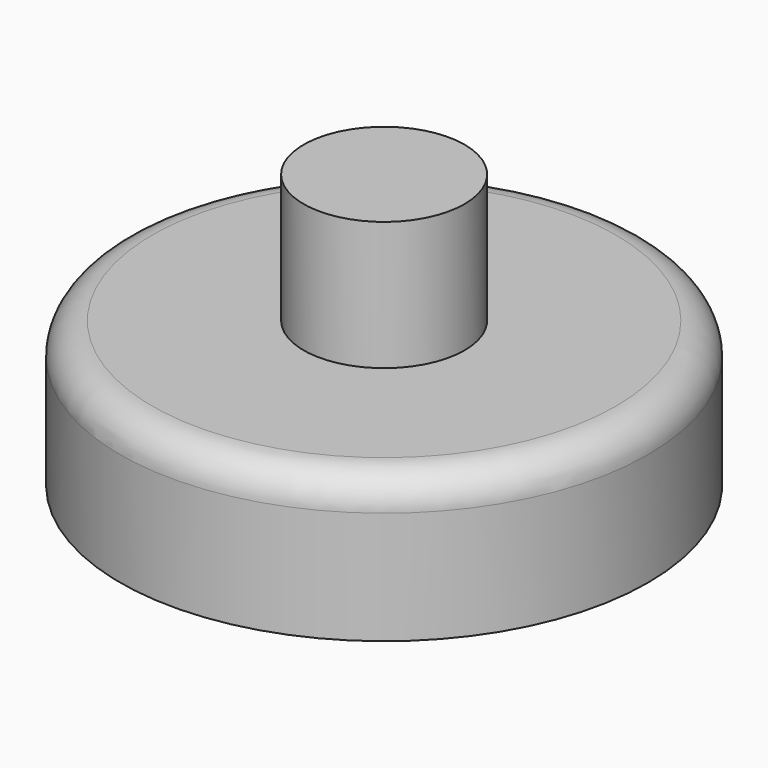
from build123d import *

# Parameters (mm, degrees)
SKETCH_R     = 8.2
PAD_DEPTH    = 4.5
SKETCH001_R  = 2.5
PAD001_DEPTH = 4
FILLET_R     = 1


with BuildPart() as part:
    # Sketch → Pad (new body)
    with BuildSketch(Plane.XY):
        Circle(SKETCH_R)
    extrude(amount=PAD_DEPTH)

    # Sketch001 (on Face3 of Pad) → Pad001 (join)
    with BuildSketch(Plane.XY.offset(4.5)):
        Circle(SKETCH001_R)
    extrude(amount=PAD001_DEPTH)

    # Fillet
    fillet_edges = [part.edges().sort_by_distance(p)[0] for p in [
        (-8.2, 0, 4.5),
    ]]
    fillet(fillet_edges, radius=FILLET_R)


solid = part.part
